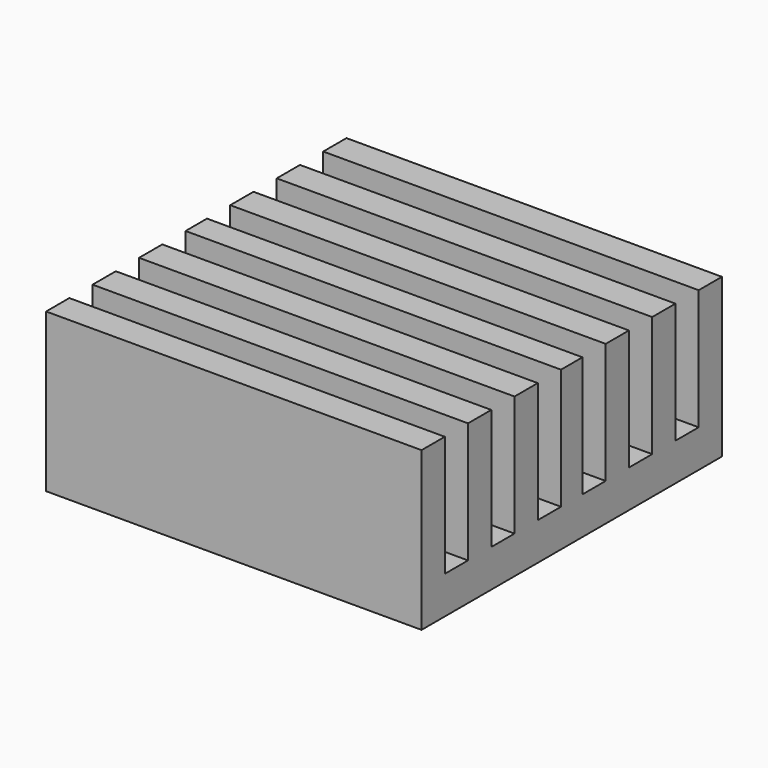
from build123d import *

# Parameters (mm, degrees)
SKETCH_W     = 14
SKETCH_H     = 14
PAD_DEPTH    = 5.9
POCKET_DEPTH = 55.319761


with BuildPart() as part:
    # Sketch → Pad (new body)
    with BuildSketch(Plane.XY):
        Rectangle(SKETCH_W, SKETCH_H)
    extrude(amount=PAD_DEPTH)

    # Sketch001 (on Face2 of Pad) → Pocket (cut, through all)
    with BuildSketch(Plane.YZ.offset(7)):
        Polygon((0, 6.9), (7, 6.9), (7, 5.9), (5.916667, 5.9), (5.916667, 1.4), (4.833333, 1.4), (4.833333, 5.9), (3.75, 5.9), (3.75, 1.4), (2.666667, 1.4), (2.666667, 5.9), (1.583333, 5.9), (1.583333, 1.4), (0.5, 1.4), (0.5, 5.9), (0, 5.9), align=None)
    pocket = extrude(amount=-POCKET_DEPTH, mode=Mode.SUBTRACT)

    # Mirrored: Pocket across XZ
    add(pocket.mirror(Plane.XZ), mode=Mode.SUBTRACT)


solid = part.part
